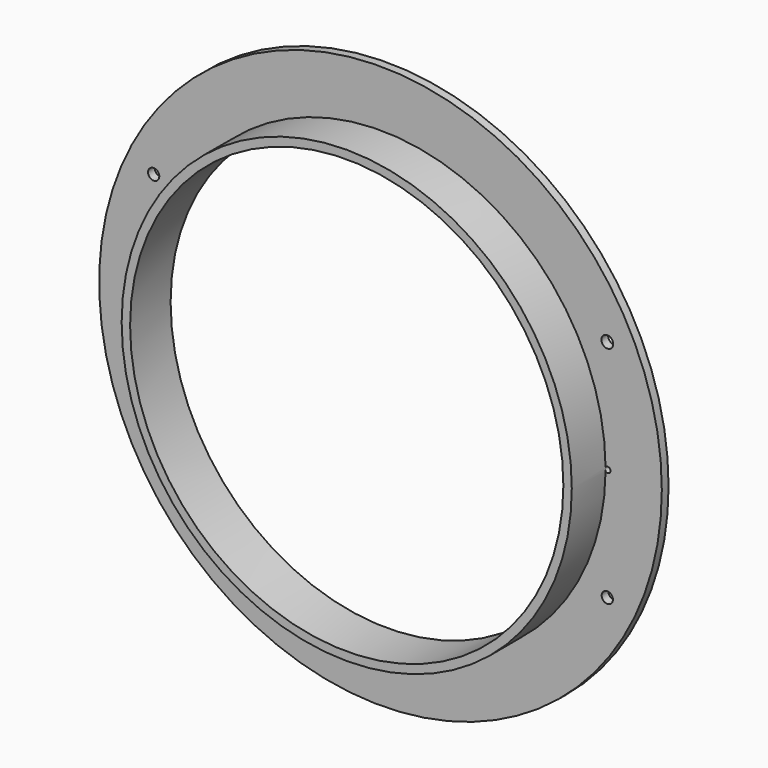
from build123d import *

# Parameters (mm, degrees)
F0_R     = 100
F1_DEPTH = 3
F2_R     = 80
F3_DEPTH = 15
F4_R     = 77
F5_DEPTH = 18.001
F6_R     = 2.1
F6_R_2   = 2
F6_R_3   = 1
F7_DEPTH = 3.001


with BuildPart() as f1:
    # F0 (on Front) → F1 (new body)
    with BuildSketch(Plane.XZ):
        Circle(F0_R)
    extrude(amount=F1_DEPTH)

    # F2 (on face) → F3 (join)
    with BuildSketch(Plane.XZ.offset(3)):
        Circle(F2_R)
    extrude(amount=F3_DEPTH)

    # F4 (on face) → F5 (cut, through all)
    with BuildSketch(Plane.XZ.offset(18)):
        Circle(F4_R)
    extrude(amount=-F5_DEPTH, mode=Mode.SUBTRACT)

    # F6 (on face) → F7 (cut, through all)
    with BuildSketch(Plane.XZ.offset(3)):
        with Locations((80.622577, 40)):
            Circle(F6_R)
        with Locations((-80.622577, 40)):
            Circle(F6_R_2)
        with Locations((-80.622577, -40)):
            Circle(F6_R_2)
        with Locations((80.622577, -40)):
            Circle(F6_R_2)
        with Locations((80.770344, 0)):
            Circle(F6_R_3)
    extrude(amount=-F7_DEPTH, mode=Mode.SUBTRACT)


solid = f1.part
